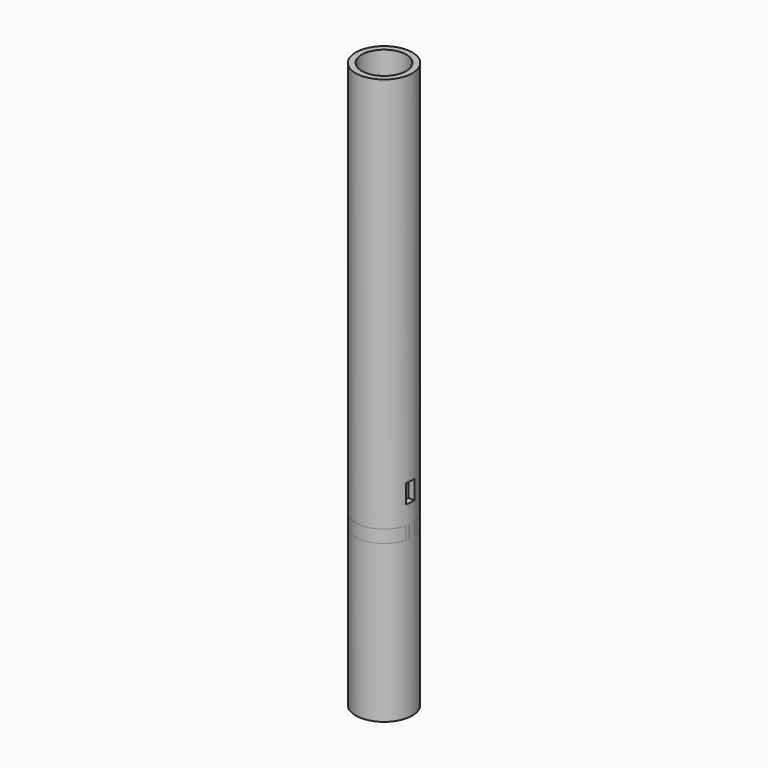
from build123d import *

# Parameters (mm, degrees)
F0_R     = 11.43
F0_R_2   = 8.98586
F1_DEPTH = 228.6
F3_W     = 28.714685
F3_H     = 3.832995
F4_DEPTH = 7.62
F6_R     = 11.43
F7_DEPTH = 5.08


with BuildPart() as f1:
    # F0 (on Top) → F1 (new body)
    with BuildSketch(Plane.XY):
        Circle(F0_R)
        Circle(F0_R_2, mode=Mode.SUBTRACT)
    extrude(amount=F1_DEPTH)

    # F3 (on offset) → F4 (cut)
    with BuildSketch(Plane.XY.offset(76.2)):
        with Locations((0.406578, -0.824531)):
            Rectangle(F3_W, F3_H)
    extrude(amount=F4_DEPTH, mode=Mode.SUBTRACT)


with BuildPart() as f7:
    # F6 (on offset) → F7 (new body)
    with BuildSketch(Plane.XY.offset(63.5)):
        Circle(F6_R)
    extrude(amount=F7_DEPTH)


solid = Compound([f1.part, f7.part])
